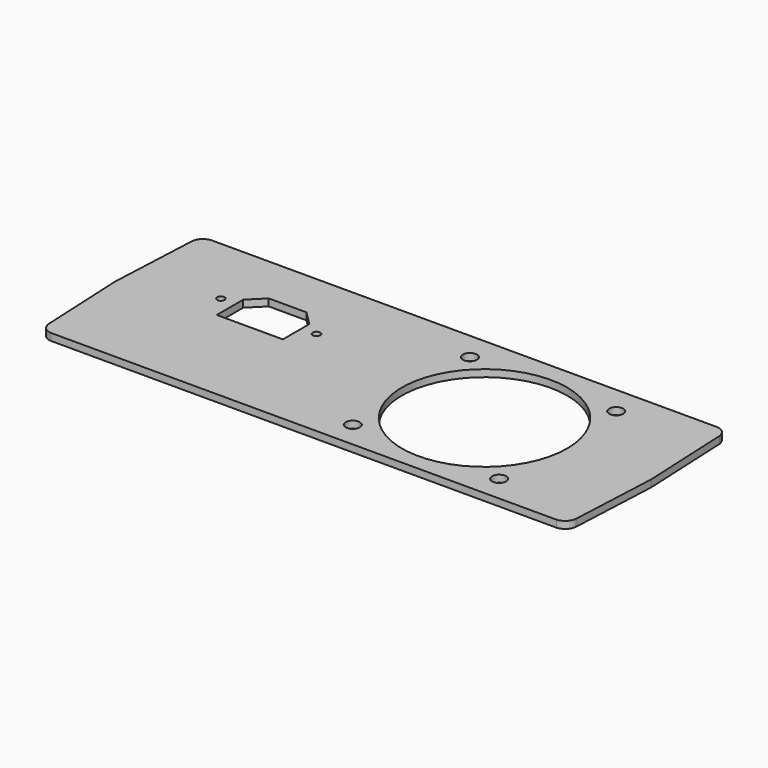
from build123d import *

# Parameters (mm, degrees)
SKETCH_R      = 1.6
SKETCH_R_2    = 3
SKETCH_R_3    = 35
EXTRUDE_DEPTH = 3


with BuildPart() as part:
    # Sketch → Extrude (new body)
    with BuildSketch(Plane.XY):
        with BuildLine():
            Line((16.082868, 8), (230.156125, 8))
            ThreePointArc((230.156125, 8), (233.316389, 9.389315), (234.823147, 12.495299))
            Line((234.823147, 12.495299), (236.609086, 50))
            Line((236.609086, 50), (234.818635, 88.494692))
            ThreePointArc((234.818635, 88.494692), (233.286361, 91.630467), (230.076169, 93))
            Line((230.076169, 93), (16.126662, 93))
            ThreePointArc((16.126662, 93), (12.911047, 91.609366), (11.397447, 88.449769))
            Line((11.397447, 88.449769), (9.609086, 50))
            Line((9.609086, 50), (11.396507, 12.46415))
            ThreePointArc((11.396507, 12.46415), (12.919924, 9.371506), (16.082868, 8))
        make_face()
        with Locations((44.561357, 62.315305)):
            Circle(SKETCH_R, mode=Mode.SUBTRACT)
        with Locations((85.061357, 62.315305)):
            Circle(SKETCH_R, mode=Mode.SUBTRACT)
        with Locations((135.082868, 81)):
            Circle(SKETCH_R_2, mode=Mode.SUBTRACT)
        with Locations((197.082868, 81)):
            Circle(SKETCH_R_2, mode=Mode.SUBTRACT)
        with Locations((197.082868, 19)):
            Circle(SKETCH_R_2, mode=Mode.SUBTRACT)
        with Locations((135.082868, 19)):
            Circle(SKETCH_R_2, mode=Mode.SUBTRACT)
        with Locations((166.082868, 50)):
            Circle(SKETCH_R_3, mode=Mode.SUBTRACT)
        Polygon((78.811357, 66.315305), (72.811357, 72.315305), (56.811357, 72.315305), (50.811357, 66.315305), (50.811357, 52.315305), (78.811357, 52.315305), align=None, mode=Mode.SUBTRACT)
    extrude(amount=EXTRUDE_DEPTH)


solid = part.part
